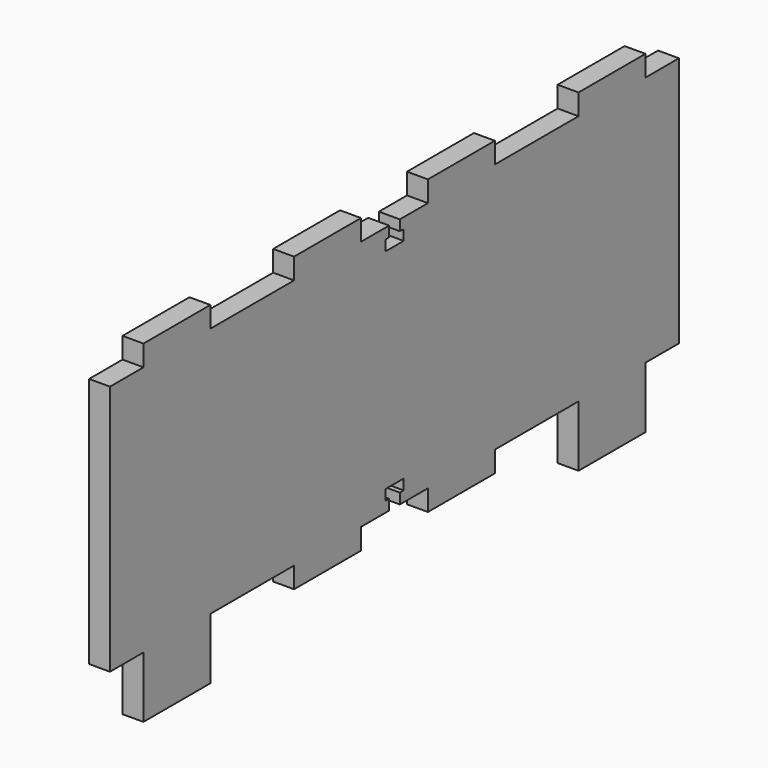
from build123d import *

# Parameters (mm, degrees)
F1_W     = 20
F1_H     = 14.6167501807
F1_H_2   = 5
F2_DEPTH = 5


with BuildPart() as f2:
    # F1 (on Right) → F2 (new body)
    with BuildSketch(Plane.YZ):
        Polygon((0, 60), (0, 0), (10, 0), (30, 0), (55, 0), (75, 0), (83.4, 0), (83.4, 2.5), (82.25, 2.5), (82.25, 5), (85, 5), (87.75, 5), (87.75, 2.5), (86.6, 2.5), (86.6, 0), (95, 0), (115, 0), (140, 0), (160, 0), (170, 0), (170, 60), (160, 60), (140, 60), (115, 60), (95, 60), (86.6, 60), (86.6, 57.5), (87.75, 57.5), (87.75, 55), (85, 55), (82.25, 55), (82.25, 57.5), (83.4, 57.5), (83.4, 60), (75, 60), (55, 60), (30, 60), (10, 60), align=None)
        with Locations((20, -7.3083750904)):
            Rectangle(F1_W, F1_H)
        with Locations((20, 62.5)):
            Rectangle(F1_W, F1_H_2)
        with Locations((65, -2.5)):
            Rectangle(F1_W, F1_H_2)
        with Locations((65, 62.5)):
            Rectangle(F1_W, F1_H_2)
        with Locations((105, -2.5)):
            Rectangle(F1_W, F1_H_2)
        with Locations((105, 62.5)):
            Rectangle(F1_W, F1_H_2)
        with Locations((150, -7.3083750904)):
            Rectangle(F1_W, F1_H)
        with Locations((150, 62.5)):
            Rectangle(F1_W, F1_H_2)
    extrude(amount=F2_DEPTH)


solid = f2.part
